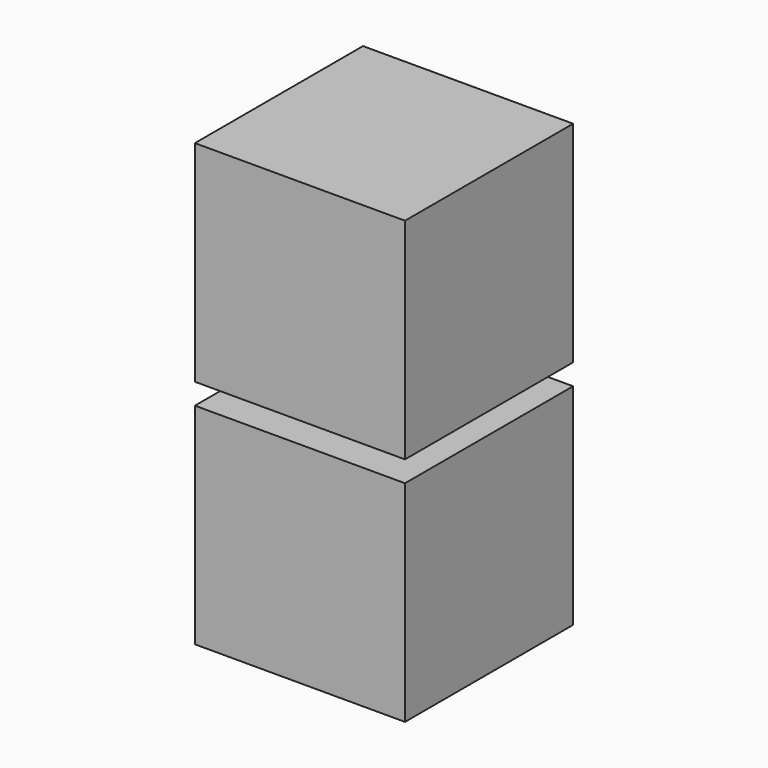
from build123d import *

# Parameters (mm, degrees)
F0_W     = 100
F0_H     = 100
F1_DEPTH = 100
F2_W     = 51.167542
F2_H     = 51.167542
F3_DEPTH = 10
F4_W     = 100
F4_H     = 100
F5_DEPTH = 100


with BuildPart() as f1:
    # F0 (on Top) → F1 (new body)
    with BuildSketch(Plane.XY):
        Rectangle(F0_W, F0_H)
    extrude(amount=F1_DEPTH)

    # F2 (on face) → F3 (join)
    with BuildSketch(Plane.XY.offset(100)):
        Rectangle(F2_W, F2_H)
    extrude(amount=F3_DEPTH)

    # F4 (on face) → F5 (join)
    with BuildSketch(Plane.XY.offset(110)):
        Rectangle(F4_W, F4_H)
    extrude(amount=F5_DEPTH)


solid = f1.part
